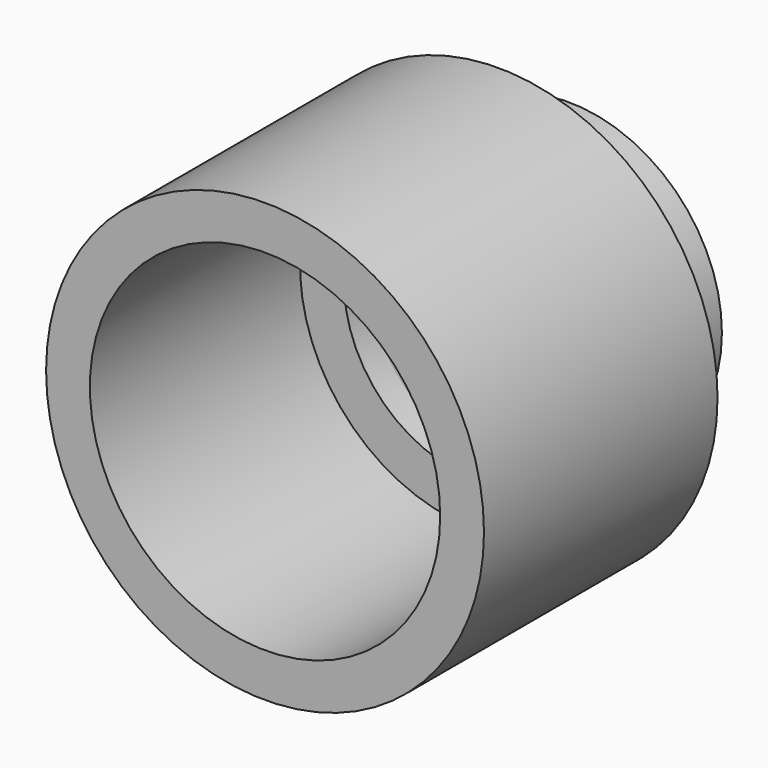
from build123d import *

# Parameters (mm, degrees)
F0_R          = 7.5
F0_R_2        = 6
F1_DEPTH      = 10
F0_R_3        = 5.25
F2_DEPTH      = 1
F0_R_4        = 4.5
F3_DEPTH      = 1
F3_DEPTH_BACK = 3


with BuildPart() as f1:
    # F0 (on Front) → F1 (new body)
    with BuildSketch(Plane.XZ):
        Circle(F0_R)
        Circle(F0_R_2, mode=Mode.SUBTRACT)
    extrude(amount=F1_DEPTH)

    # F0 (on Front) → F2 (join)
    with BuildSketch(Plane.XZ):
        Circle(F0_R_2)
        Circle(F0_R_3, mode=Mode.SUBTRACT)
    extrude(amount=F2_DEPTH)

    # F0 (on Front) → F3 (join, two sides)
    with BuildSketch(Plane.XZ) as f3_sk:
        Circle(F0_R_3)
        Circle(F0_R_4, mode=Mode.SUBTRACT)
    extrude(amount=F3_DEPTH)
    extrude(f3_sk.sketch, amount=-F3_DEPTH_BACK)


solid = f1.part
